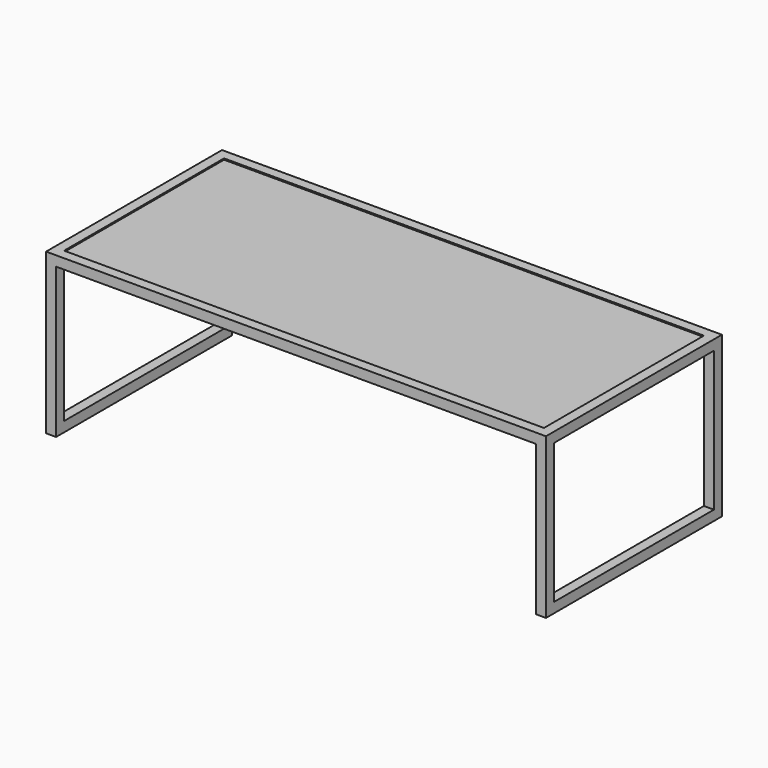
from build123d import *

# Parameters (mm, degrees)
F0_W     = 1219.2
F0_H     = 508
F1_DEPTH = 19.05
F3_W     = 1270
F3_H     = 558.8
F3_W_2   = 1219.2
F3_H_2   = 508
F4_DEPTH = 25.4
F5_W     = 25.4
F5_H     = 25.4
F6_DEPTH = 381
F7_W     = 25.4
F7_H     = 25.4
F8_DEPTH = 508


with BuildPart() as f1:
    # F0 (on Top) → F1 (new body)
    with BuildSketch(Plane.XY):
        Rectangle(F0_W, F0_H)
    extrude(amount=F1_DEPTH)


with BuildPart() as f4:
    # F3 (on offset) → F4 (new body)
    with BuildSketch(Plane(origin=(0, 0, -3.175), x_dir=(1, 0, 0), z_dir=(0, 0, -1))):
        Rectangle(F3_W, F3_H)
        Rectangle(F3_W_2, F3_H_2, mode=Mode.SUBTRACT)
    extrude(amount=-F4_DEPTH)

    # F5 (on face) → F6 (join)
    with BuildSketch(Plane(origin=(0, 0, -3.175), x_dir=(1, 0, 0), z_dir=(0, 0, -1))):
        with Locations((622.3, -266.7)):
            Rectangle(F5_W, F5_H)
        with Locations((622.3, 266.7)):
            Rectangle(F5_W, F5_H)
        with Locations((-622.3, 266.7)):
            Rectangle(F5_W, F5_H)
        with Locations((-622.3, -266.7)):
            Rectangle(F5_W, F5_H)
    extrude(amount=F6_DEPTH)

    # F7 (on face) → F8 (join)
    with BuildSketch(Plane.XZ.offset(-254)):
        with Locations((622.3, -371.475)):
            Rectangle(F7_W, F7_H)
        with Locations((-622.3, -371.475)):
            Rectangle(F7_W, F7_H)
    extrude(amount=F8_DEPTH)


solid = Compound([f1.part, f4.part])
